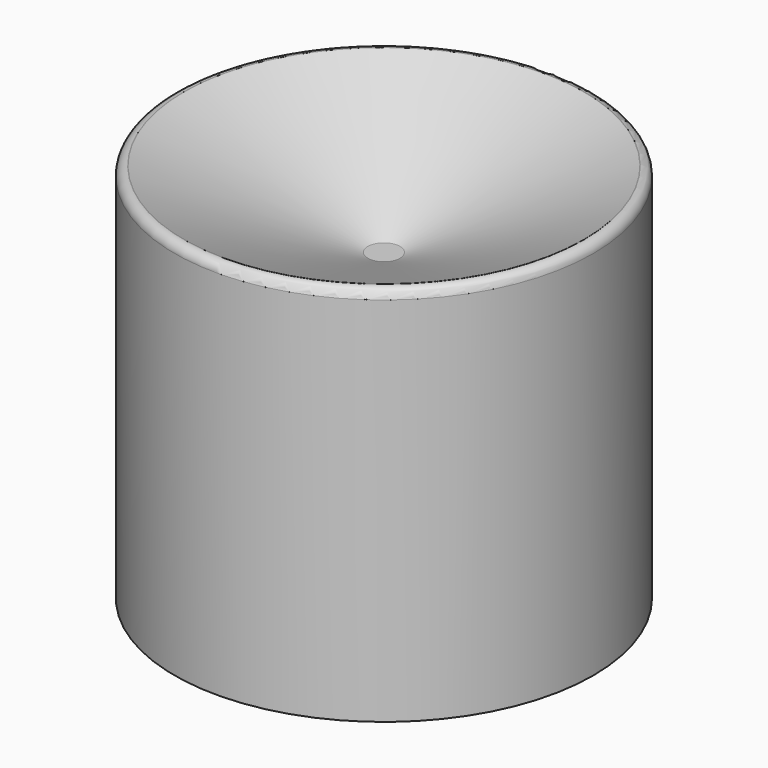
from build123d import *

# Parameters (mm, degrees)
F0_R           = 5.5
F1_DEPTH       = 10
F2_R           = 0.241421
F4_D           = 0.1
F4_CSINK_D     = 10.5
F4_CSINK_ANGLE = 135
F5_DEPTH       = 8


with BuildPart() as f1:
    # F0 (on Top) → F1 (new body)
    with BuildSketch(Plane.XY):
        Circle(F0_R)
    extrude(amount=F1_DEPTH)

    # F2
    f2_edges = [f1.edges().sort_by_distance(p)[0] for p in [
        (-5.5, 0, 10),
    ]]
    fillet(f2_edges, radius=F2_R)

    # F4 (through all)
    with Locations(Plane.XY.offset(10)):
        with Locations((0, 0)):
            CounterSinkHole(F4_D / 2, F4_CSINK_D / 2, counter_sink_angle=F4_CSINK_ANGLE)

    # F0 (on Top) → F5 (join)
    with BuildSketch(Plane.XY):
        Circle(F0_R)
    extrude(amount=F5_DEPTH)


solid = f1.part
